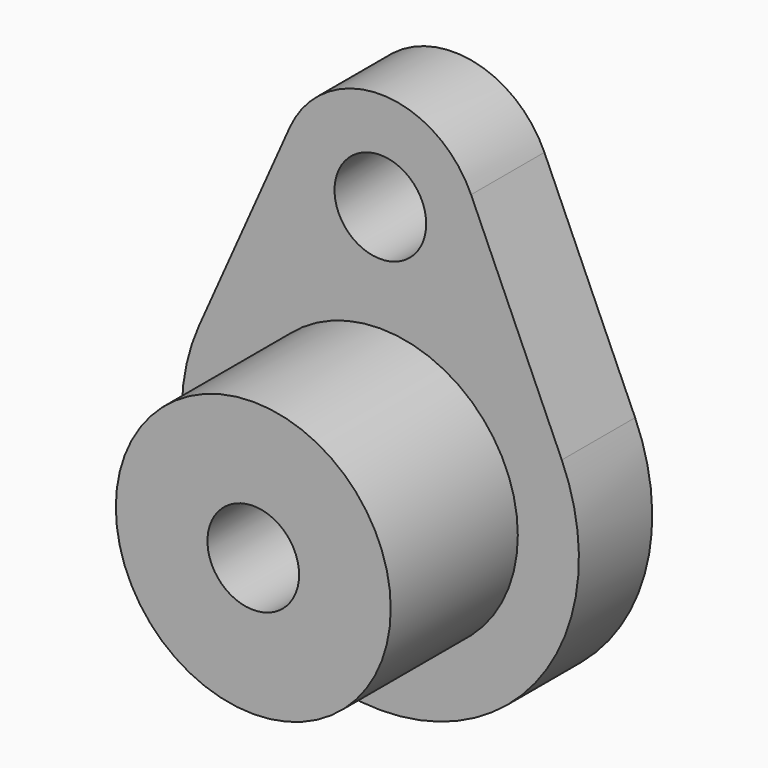
from build123d import *

# Parameters (mm, degrees)
F0_R     = 1.5
F1_DEPTH = 3
F2_R     = 4.5
F3_DEPTH = 5.2
F4_R     = 1.5
F5_DEPTH = 20


with BuildPart() as f1:
    # F0 (on Front) → F1 (new body)
    with BuildSketch(Plane.XZ):
        with BuildLine():
            Line((5.9394528039, 2.640625), (2.9697264019, 9.3203125))
            ThreePointArc((2.9697264019, 9.3203125), (0, 11.25), (-2.9697264019, 9.3203125))
            Line((-2.9697264019, 9.3203125), (-5.9394528039, 2.640625))
            ThreePointArc((-5.9394528039, 2.640625), (0, -6.5), (5.9394528039, 2.640625))
        make_face()
        with Locations((0, 8)):
            Circle(F0_R, mode=Mode.SUBTRACT)
    extrude(amount=-F1_DEPTH)

    # F2 (on face) → F3 (join)
    with BuildSketch(Plane.XZ):
        Circle(F2_R)
    extrude(amount=F3_DEPTH)

    # F4 (on face) → F5 (cut)
    with BuildSketch(Plane.XZ.offset(5.2)):
        Circle(F4_R)
    extrude(amount=-F5_DEPTH, mode=Mode.SUBTRACT)


solid = f1.part
